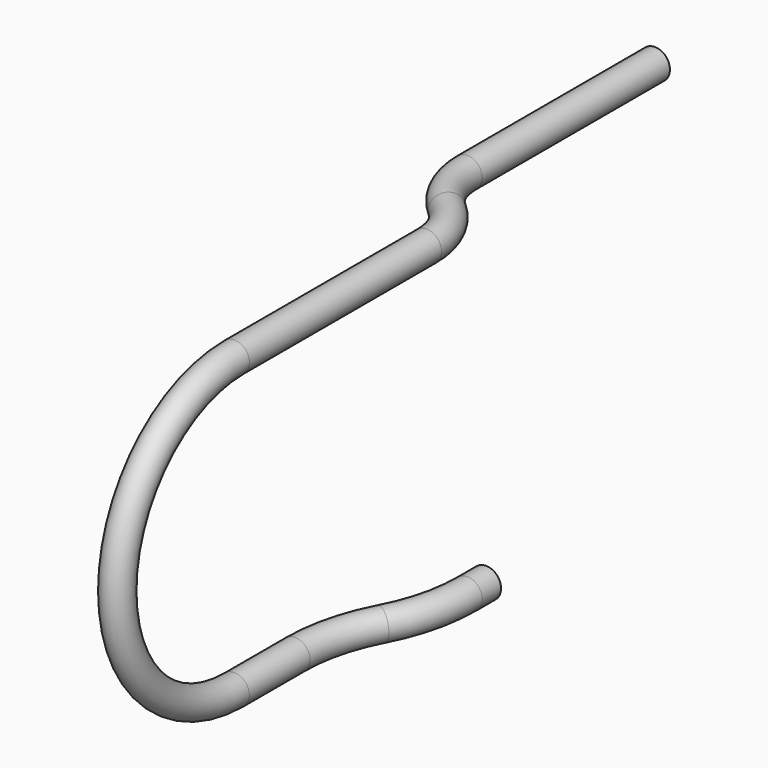
from build123d import *

# Parameters (mm, degrees)
F3_R = 2.032


with BuildPart() as f6:
    # F6: sweep along a path in F0, F2, F5
    with BuildLine(Plane.XY) as f6_path:
        Line((0, 0), (0, -3.175))
        ThreePointArc((0, -3.175), (-0.6992549102, -8.8995663823), (-2.7559, -14.2875))
        ThreePointArc((-2.7559, -14.2875), (-4.8125450898, -19.6754336177), (-5.5118, -25.4))
        Line((-5.5118, -25.4), (-5.5118, -31.75))
    with BuildLine(Plane.YZ.offset(-5.5118)) as f6_path_2:
        Line((-31.75, 0), (-35.687, 0))
        ThreePointArc((-35.687, 0), (-55.499, 19.812), (-35.687, 39.624))
        Line((-35.687, 39.624), (-6.35, 39.624))
    with BuildLine(Plane.XY.offset(39.624)) as f6_path_3:
        Line((-5.5118, -6.35), (-5.5118, -3.175))
        ThreePointArc((-5.5118, -3.175), (-6.4521889956, 1.1816461028), (-9.1059, 4.7625))
        ThreePointArc((-9.1059, 4.7625), (-11.7596110044, 8.3433538972), (-12.7, 12.7))
        Line((-12.7, 12.7), (-12.7, 44.45))
    # F3 (on Front) → F6 (sweep)
    with BuildSketch(Plane.XZ):
        Circle(F3_R)
    sweep(path=f6_path.line + f6_path_2.line + f6_path_3.line)


solid = f6.part
